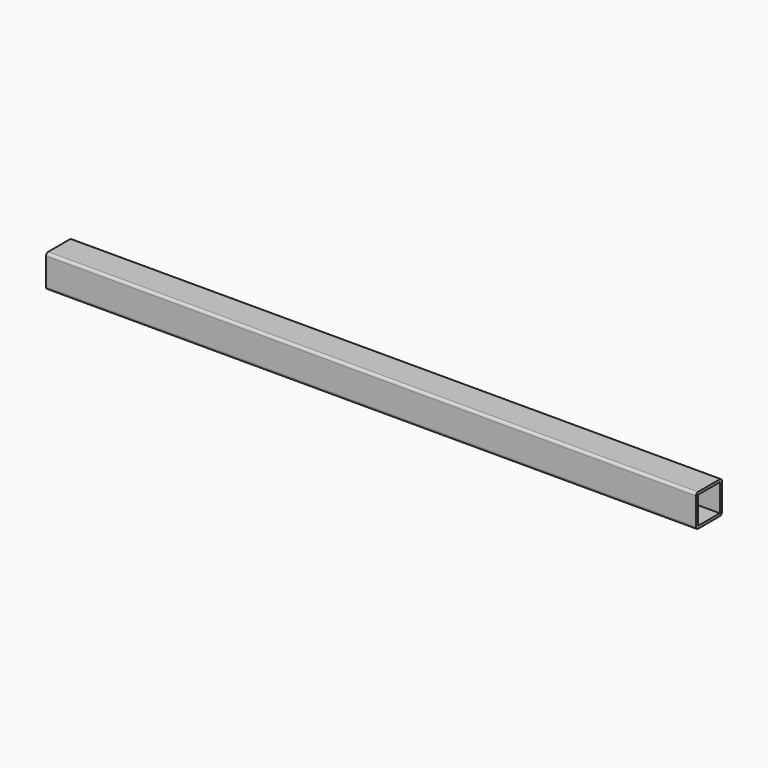
from build123d import *

# Parameters (mm, degrees)
F0_W     = 42
F0_H     = 42
F1_DEPTH = 500


with BuildPart() as f1:
    # F0 (on Right) → F1 (new body, symmetric)
    with BuildSketch(Plane.YZ):
        with BuildLine():
            Line((21, 25), (-21, 25))
            ThreePointArc((-21, 25), (-23.828427, 23.828427), (-25, 21))
            Line((-25, 21), (-25, -21))
            ThreePointArc((-25, -21), (-23.828427, -23.828427), (-21, -25))
            Line((-21, -25), (21, -25))
            ThreePointArc((21, -25), (23.828427, -23.828427), (25, -21))
            Line((25, -21), (25, 21))
            ThreePointArc((25, 21), (23.828427, 23.828427), (21, 25))
        make_face()
        Rectangle(F0_W, F0_H, mode=Mode.SUBTRACT)
    extrude(amount=F1_DEPTH, both=True)


solid = f1.part
